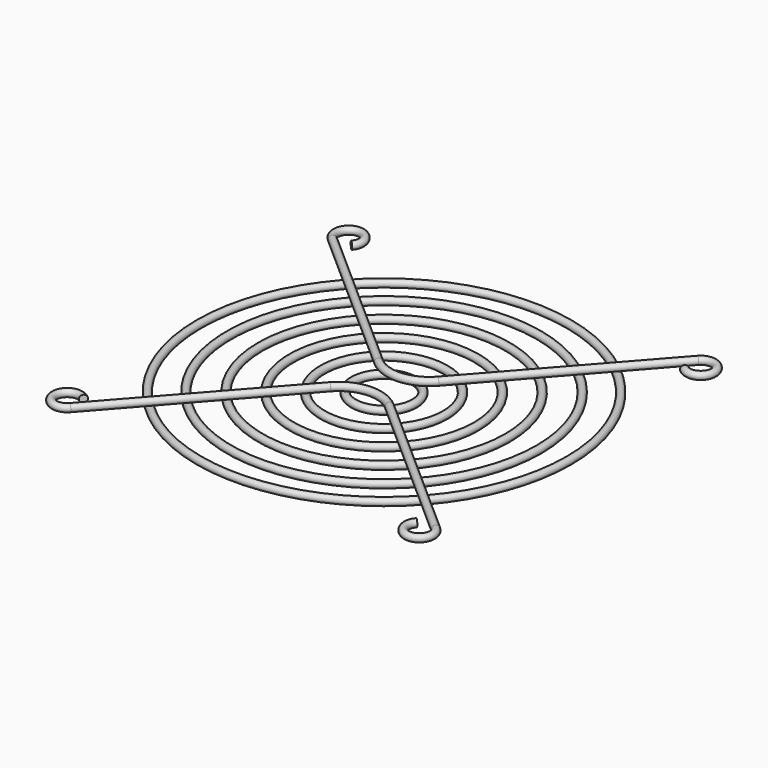
from build123d import *

# Parameters (mm, degrees)
SKETCH014_R             = 0.85
SKETCH013_R             = 0.85
SKETCH012_R             = 0.85
SKETCH011_R             = 0.85
SKETCH010_R             = 0.85
SKETCH007_R             = 0.85
SKETCH008_R             = 0.85
BODY007_PLACEMENT_ANGLE = 180
SKETCH015_R             = 0.85


with BuildPart() as body001:
    # AdditivePipe006: sweep along a path in Sketch001
    with BuildLine(Plane.XY) as additivepipe006_path:
        CenterArc((0, 0), 14.3, 0, 360)
    # Sketch014 → AdditivePipe006 (sweep)
    with BuildSketch(Plane.YZ):
        with Locations((14.3, 0)):
            Circle(SKETCH014_R)
    sweep(path=additivepipe006_path.line)


with BuildPart() as body002:
    # AdditivePipe005: sweep along a path in Sketch002
    with BuildLine(Plane.XY) as additivepipe005_path:
        CenterArc((0, 0), 21.55, 0, 360)
    # Sketch013 → AdditivePipe005 (sweep)
    with BuildSketch(Plane.YZ):
        with Locations((21.55, 0)):
            Circle(SKETCH013_R)
    sweep(path=additivepipe005_path.line)


with BuildPart() as body003:
    # AdditivePipe004: sweep along a path in Sketch003
    with BuildLine(Plane.XY) as additivepipe004_path:
        CenterArc((0, 0), 28.8, 0, 360)
    # Sketch012 → AdditivePipe004 (sweep)
    with BuildSketch(Plane.YZ):
        with Locations((28.8, 0)):
            Circle(SKETCH012_R)
    sweep(path=additivepipe004_path.line)


with BuildPart() as body004:
    # AdditivePipe003: sweep along a path in Sketch004
    with BuildLine(Plane.XY) as additivepipe003_path:
        CenterArc((0, 0), 36.1, 0, 360)
    # Sketch011 → AdditivePipe003 (sweep)
    with BuildSketch(Plane.YZ):
        with Locations((36.1, 0)):
            Circle(SKETCH011_R)
    sweep(path=additivepipe003_path.line)


with BuildPart() as body005:
    # AdditivePipe002: sweep along a path in Sketch005
    with BuildLine(Plane.XY) as additivepipe002_path:
        CenterArc((0, 0), 43.1, 0, 360)
    # Sketch010 → AdditivePipe002 (sweep)
    with BuildSketch(Plane.YZ):
        with Locations((43.1, 0)):
            Circle(SKETCH010_R)
    sweep(path=additivepipe002_path.line)


with BuildPart() as body006:
    # AdditivePipe: sweep along a path in Sketch006
    with BuildLine(Plane.XY) as additivepipe_path:
        ThreePointArc((-38.802258, 39.013401), (-41.235067, 43.994301), (-43.036839, 38.752017))
        Line((-43.036839, 38.752017), (-6.186075, 6.186075))
        ThreePointArc((-6.186075, 6.186075), (0.575532, 3.862112), (7, 7))
        Line((7, 7), (38.802258, 42.986599))
        ThreePointArc((38.802258, 42.986599), (44.044542, 41.184826), (39.063642, 38.752017))
    # Sketch007 → AdditivePipe (sweep)
    with BuildSketch(Plane.YZ):
        with Locations((3.844366, 0)):
            Circle(SKETCH007_R)
    sweep(path=additivepipe_path.line)


with BuildPart() as body006_1:
    # Body006 placement: moved
    add(body006.part.moved(Location((0, 0, 1.7))))


with BuildPart() as body007:
    # AdditivePipe001: sweep along a path in Sketch009
    with BuildLine(Plane.XY) as additivepipe001_path:
        ThreePointArc((-38.802258, 39.013401), (-41.235067, 43.994301), (-43.036839, 38.752017))
        Line((-43.036839, 38.752017), (-6.186075, 6.186075))
        ThreePointArc((-6.186075, 6.186075), (0.575532, 3.862112), (7, 7))
        Line((7, 7), (38.802258, 42.986599))
        ThreePointArc((38.802258, 42.986599), (44.044542, 41.184826), (39.063642, 38.752017))
    # Sketch008 → AdditivePipe001 (sweep)
    with BuildSketch(Plane.YZ):
        with Locations((3.844366, 0)):
            Circle(SKETCH008_R)
    sweep(path=additivepipe001_path.line)


with BuildPart() as body007_1:
    # Body007 placement: moved
    add(body007.part.moved(Location((0, 0, 1.7))).rotate(Axis((0, 0, 1.7), (0, 0, 1)), BODY007_PLACEMENT_ANGLE))


with BuildPart() as grid:
    # AdditivePipe007: sweep along a path in Sketch
    with BuildLine(Plane.XY) as additivepipe007_path:
        CenterArc((0, 0), 7.1, 0, 360)
    # Sketch015 → AdditivePipe007 (sweep)
    with BuildSketch(Plane.YZ):
        with Locations((7.1, 0)):
            Circle(SKETCH015_R)
    sweep(path=additivepipe007_path.line)

    # Fusion: union Body001, Body002, Body003, Body004, Body005, Body006, Body007
    add(body001.part)
    add(body002.part)
    add(body003.part)
    add(body004.part)
    add(body005.part)
    add(body006_1.part)
    add(body007_1.part)


solid = grid.part
